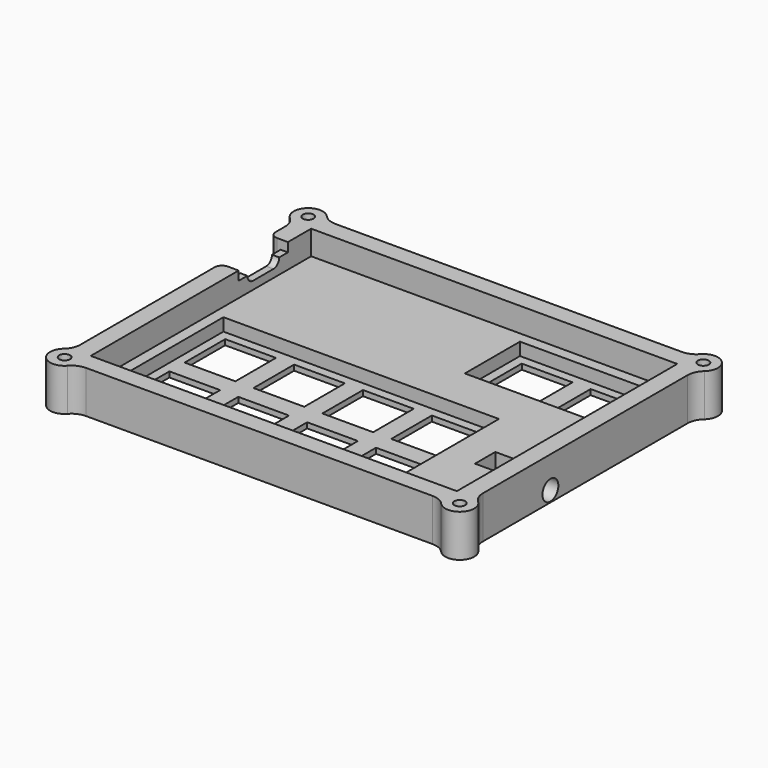
from build123d import *

# Parameters (mm, degrees)
PAD004_DEPTH     = 11.7
SHAPEBINDER001_R = 4
PAD005_DEPTH     = 11.7
SKETCH008_R      = 1.5
POCKET004_DEPTH  = 7
FILLET002_R      = 5
SKETCH009_W      = 101
SKETCH009_H      = 76
POCKET005_DEPTH  = 6.7
SKETCH011_W      = 76
SKETCH011_H      = 38.25
SKETCH011_W_2    = 38
SKETCH011_H_2    = 19
POCKET006_DEPTH  = 3.5
SKETCH012_W      = 14
SKETCH012_H      = 14
POCKET007_DEPTH  = 1.5
SKETCH015_W      = 13
SKETCH015_H      = 7
POCKET010_DEPTH  = 5
SKETCH016_R      = 2.75
POCKET011_DEPTH  = 5
SKETCH017_W      = 5
SKETCH017_H      = 17
POCKET012_DEPTH  = 2.5
SKETCH018_W      = 3
SKETCH018_H      = 17
POCKET013_DEPTH  = 4.5
POCKET014_DEPTH  = 2
FILLET003_R      = 2


with BuildPart() as part:
    # ShapeBinder → Pad004 (new body)
    with BuildSketch(Plane(origin=(0, 0, 0), x_dir=(0, 1, 0), z_dir=(0, 0, 1))):
        with BuildLine():
            Line((43, -51.5), (43, 51.5))
            ThreePointArc((43, 51.5), (41.828427, 54.328427), (39, 55.5))
            Line((39, 55.5), (-39, 55.5))
            ThreePointArc((-39, 55.5), (-41.828427, 54.328427), (-43, 51.5))
            Line((-43, 51.5), (-43, -51.5))
            ThreePointArc((-43, -51.5), (-41.828427, -54.328427), (-39, -55.5))
            Line((-39, -55.5), (39, -55.5))
            ThreePointArc((39, -55.5), (41.828427, -54.328427), (43, -51.5))
        make_face()
    extrude(amount=PAD004_DEPTH)

    # ShapeBinder001 → Pad005 (join)
    with BuildSketch(Plane(origin=(0, 0, 0), x_dir=(0, 1, 0), z_dir=(0, 0, 1))):
        with Locations((42, -54.5)):
            Circle(SHAPEBINDER001_R)
        with Locations((42, 54.5)):
            Circle(SHAPEBINDER001_R)
        with Locations((-42, -54.5)):
            Circle(SHAPEBINDER001_R)
        with Locations((-42, 54.5)):
            Circle(SHAPEBINDER001_R)
    extrude(amount=PAD005_DEPTH)

    # Sketch008 (on Face8 of Pad005) → Pocket004 (cut)
    with BuildSketch(Plane.XY.offset(11.7)):
        with Locations((54.5, 42)):
            Circle(SKETCH008_R)
        with Locations((-54.5, 42)):
            Circle(SKETCH008_R)
        with Locations((-54.5, -42)):
            Circle(SKETCH008_R)
        with Locations((54.5, -42)):
            Circle(SKETCH008_R)
    extrude(amount=-POCKET004_DEPTH, mode=Mode.SUBTRACT)

    # Fillet002
    fillet002_edges = [part.edges().sort_by_distance(p)[0] for p in [
        (-55.5, -38.127017, 5.85),
        (-55.5, 38.127017, 5.85),
        (50.627017, 43, 5.85),
        (-50.627017, 43, 5.85),
        (55.5, -38.127017, 5.85),
        (55.5, 38.127017, 5.85),
        (-50.627017, -43, 5.85),
        (50.627017, -43, 5.85),
    ]]
    fillet(fillet002_edges, radius=FILLET002_R)

    # Sketch009 (on Face5 of Fillet002) → Pocket005 (cut)
    with BuildSketch(Plane.XY.offset(11.7)):
        Rectangle(SKETCH009_W, SKETCH009_H)
    extrude(amount=-POCKET005_DEPTH, mode=Mode.SUBTRACT)

    # Sketch011 (on Face30 of Pocket005) → Pocket006 (cut)
    with BuildSketch(Plane.XY.offset(5)):
        with Locations((-9.5, -15.125)):
            Rectangle(SKETCH011_W, SKETCH011_H)
        with Locations((28.5, 25.5)):
            Rectangle(SKETCH011_W_2, SKETCH011_H_2)
    extrude(amount=-POCKET006_DEPTH, mode=Mode.SUBTRACT)

    # Sketch012 (on Face40 of Pocket006) → Pocket007 (cut)
    with BuildSketch(Plane.XY.offset(1.5)):
        with Locations((-38, -5.5)):
            Rectangle(SKETCH012_W, SKETCH012_H)
        with Locations((-19, -5.5)):
            Rectangle(SKETCH012_W, SKETCH012_H)
        with Locations((0, -5.5)):
            Rectangle(SKETCH012_W, SKETCH012_H)
        with Locations((19, -5.5)):
            Rectangle(SKETCH012_W, SKETCH012_H)
        with Locations((-38, -24.75)):
            Rectangle(SKETCH012_W, SKETCH012_H)
        with Locations((-19, -24.75)):
            Rectangle(SKETCH012_W, SKETCH012_H)
        with Locations((0, -24.75)):
            Rectangle(SKETCH012_W, SKETCH012_H)
        with Locations((19, -24.75)):
            Rectangle(SKETCH012_W, SKETCH012_H)
        with Locations((19, 25.5)):
            Rectangle(SKETCH012_W, SKETCH012_H)
        with Locations((38, 25.5)):
            Rectangle(SKETCH012_W, SKETCH012_H)
    extrude(amount=-POCKET007_DEPTH, mode=Mode.SUBTRACT)

    # Sketch015 → Pocket010 (cut)
    with BuildSketch(Plane.XY.offset(5)):
        with Locations((44, -12)):
            Rectangle(SKETCH015_W, SKETCH015_H)
    extrude(amount=-POCKET010_DEPTH, mode=Mode.SUBTRACT)

    # Sketch016 (on Face1 of Pocket010) → Pocket011 (cut)
    with BuildSketch(Plane.YZ.offset(55.5)):
        with Locations((-12, 3)):
            Circle(SKETCH016_R)
    extrude(amount=-POCKET011_DEPTH, mode=Mode.SUBTRACT)

    # Sketch017 (on Face5 of Pocket007) → Pocket012 (cut)
    with BuildSketch(Plane.XY.offset(11.7)):
        with Locations((-53, 21.5)):
            Rectangle(SKETCH017_W, SKETCH017_H)
    extrude(amount=-POCKET012_DEPTH, mode=Mode.SUBTRACT)

    # Sketch018 (on Face73 of Pocket012) → Pocket013 (cut)
    with BuildSketch(Plane.XY.offset(9.2)):
        with Locations((-54, 21.5)):
            Rectangle(SKETCH018_W, SKETCH018_H)
    extrude(amount=-POCKET013_DEPTH, mode=Mode.SUBTRACT)

    # Sketch019 (on Face80 of Pocket013) → Pocket014 (cut)
    with BuildSketch(Plane(origin=(-52.5, 0, 0), x_dir=(0, -1, 0), z_dir=(-1, 0, 0))):
        with BuildLine():
            ThreePointArc((-25, 11.2), (-27, 9.2), (-25, 7.2))
            Line((-25, 7.2), (-18, 7.2))
            ThreePointArc((-18, 7.2), (-16, 9.2), (-18, 11.2))
            Line((-25, 11.2), (-18, 11.2))
        make_face()
    extrude(amount=-POCKET014_DEPTH, mode=Mode.SUBTRACT)

    # Fillet003
    fillet003_edges = [part.edges().sort_by_distance(p)[0] for p in [
        (-55.5, 21.5, 4.7),
        (-55.5, 30, 8.2),
        (-55.5, 13, 8.2),
    ]]
    fillet(fillet003_edges, radius=FILLET003_R)


solid = part.part
